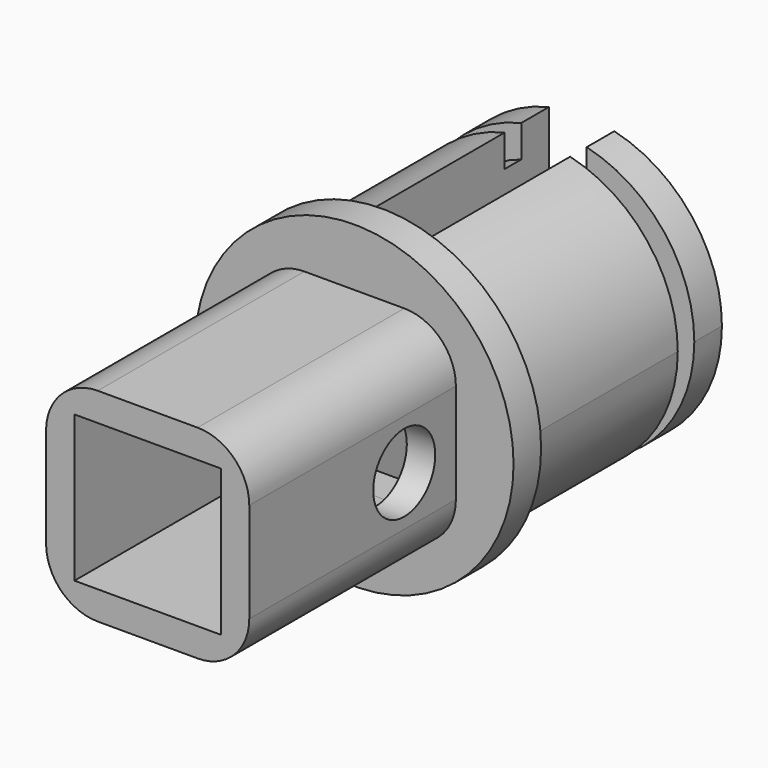
from build123d import *

# Parameters (mm, degrees)
F1_DEPTH  = 14.5
F2_W      = 1.200076
F2_H      = 1.8
F4_R      = 9.25
F5_DEPTH  = 2
F6_W      = 11.8
F6_H      = 11.8
F6_W_2    = 8.5
F6_H_2    = 8.5
F7_DEPTH  = 15
F8_R      = 2.25
F9_DEPTH  = 1.65
F10_R     = 3
F11_DEPTH = 16.501


with BuildPart() as f1:
    # F0 (on Front) → F1 (new body)
    with BuildSketch(Plane.XZ):
        with BuildLine():
            ThreePointArc((1.9, -7.925434), (6.399512, -5.046657), (8.15, 0))
            ThreePointArc((8.15, 0), (6.399512, 5.046657), (1.9, 7.925434))
            Line((1.9, 7.925434), (1.9, 4.25))
            Line((1.9, 4.25), (4.25, 4.25))
            Line((4.25, 4.25), (4.25, -4.25))
            Line((4.25, -4.25), (1.9, -4.25))
            Line((1.9, -4.25), (1.9, -7.925434))
        make_face()
        with BuildLine():
            Line((-1.9, 4.25), (-1.9, 7.925434))
            ThreePointArc((-1.9, 7.925434), (-8.15, 0), (-1.9, -7.925434))
            Line((-1.9, -7.925434), (-1.9, -4.25))
            Line((-1.9, -4.25), (-4.25, -4.25))
            Line((-4.25, -4.25), (-4.25, 4.25))
            Line((-4.25, 4.25), (-1.9, 4.25))
        make_face()
    extrude(amount=F1_DEPTH)

    # F2 (on Right) → F3 (revolve, cut)
    with BuildSketch(Plane.YZ):
        with Locations((-2.604687, 7.25)):
            Rectangle(F2_W, F2_H)
    revolve(axis=Axis((0, -1, 0), (0, -1, 0)), mode=Mode.SUBTRACT)

    # F4 (on face) → F5 (join)
    with BuildSketch(Plane.XZ.offset(14.5)):
        Circle(F4_R)
    extrude(amount=F5_DEPTH)

    # F6 (on face) → F11 (cut, through all)
    with BuildSketch(Plane.XZ.offset(16.5)):
        Rectangle(F6_W_2, F6_H_2)
    extrude(amount=-F11_DEPTH, mode=Mode.SUBTRACT)


with BuildPart() as f7:
    # F6 (on face) → F7 (new body)
    with BuildSketch(Plane.XZ.offset(16.5)):
        Rectangle(F6_W, F6_H)
        Rectangle(F6_W_2, F6_H_2, mode=Mode.SUBTRACT)
    extrude(amount=F7_DEPTH)

    # F8 (on face) → F9 (cut, through all)
    with BuildSketch(Plane.YZ.offset(5.9)):
        with Locations((-20.25, 0)):
            Circle(F8_R)
    extrude(amount=-F9_DEPTH, mode=Mode.SUBTRACT)

    # F10
    f10_edges = [f7.edges().sort_by_distance(p)[0] for p in [
        (-5.9, -24, 5.9),
        (-5.9, -24, -5.9),
        (5.9, -24, 5.9),
        (5.9, -24, -5.9),
    ]]
    fillet(f10_edges, radius=F10_R)


solid = Compound([f1.part, f7.part])
